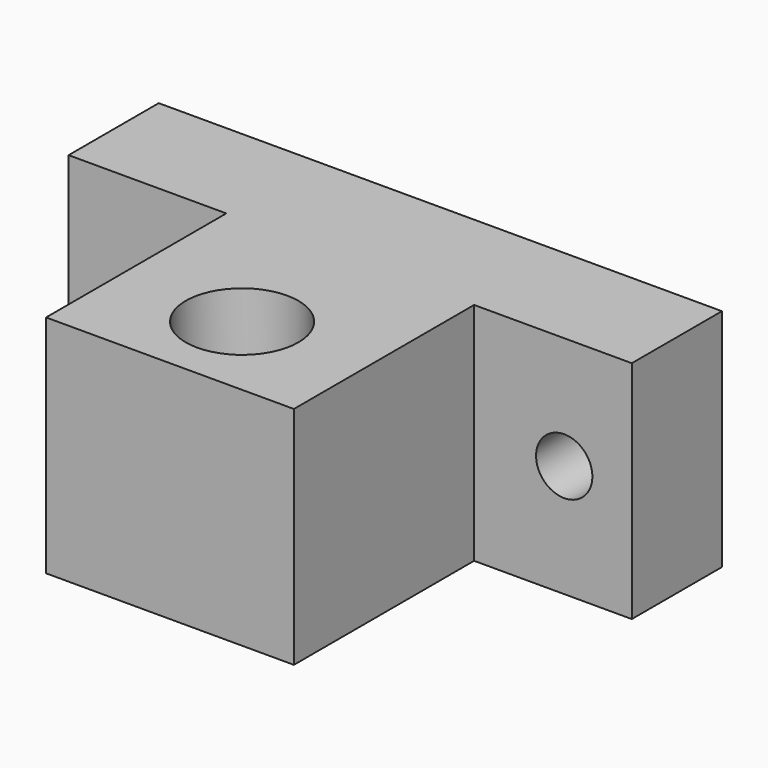
from build123d import *

# Parameters (mm, degrees)
F0_W     = 50
F0_H     = 20
F1_DEPTH = 30
F2_W     = 14
F2_H     = 20
F3_DEPTH = 20
F4_R     = 5
F5_DEPTH = 10
F6_R     = 2.5
F7_DEPTH = 25


with BuildPart() as f1:
    # F0 (on Front) → F1 (new body)
    with BuildSketch(Plane.XZ):
        Rectangle(F0_W, F0_H)
    extrude(amount=F1_DEPTH)

    # F2 (on face) → F3 (cut)
    with BuildSketch(Plane.XZ.offset(30)):
        with Locations((-18, 0)):
            Rectangle(F2_W, F2_H)
        with Locations((18, 0)):
            Rectangle(F2_W, F2_H)
    extrude(amount=-F3_DEPTH, mode=Mode.SUBTRACT)

    # F4 (on face) → F5 (cut)
    with BuildSketch(Plane.XY.offset(10)):
        with Locations((0, -22)):
            Circle(F4_R)
    extrude(amount=-F5_DEPTH, mode=Mode.SUBTRACT)

    # F6 (on face) → F7 (cut)
    with BuildSketch(Plane.XZ.offset(10)):
        with Locations((-19, 0)):
            Circle(F6_R)
        with Locations((19, 0)):
            Circle(F6_R)
    extrude(amount=-F7_DEPTH, mode=Mode.SUBTRACT)


solid = f1.part
